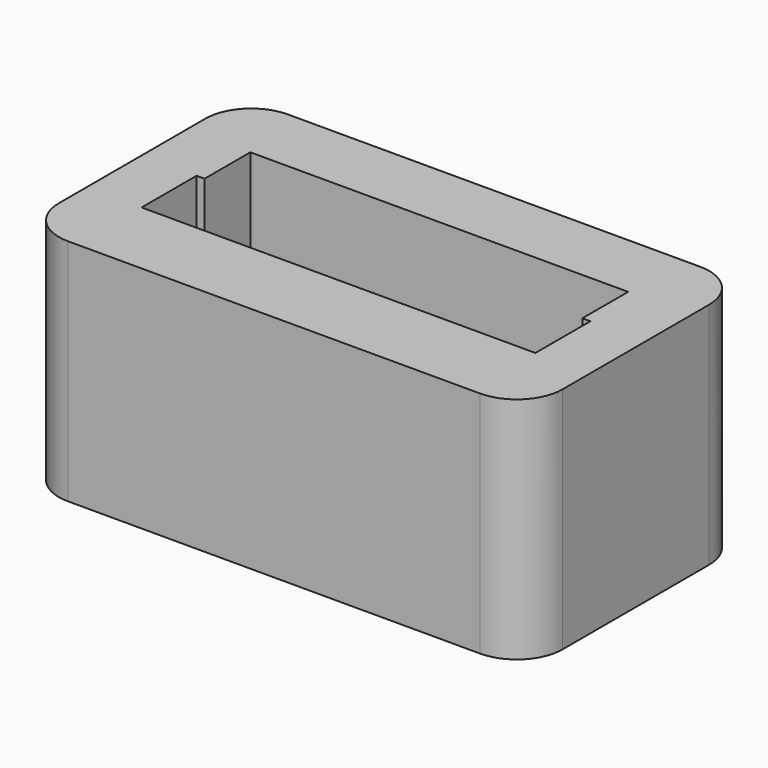
from build123d import *

# Parameters (mm, degrees)
F0_W     = 22
F0_H     = 12
F1_DEPTH = 1
F2_DEPTH = 10
F3_W     = 2.4
F3_H     = 2.5
F4_DEPTH = 9
F5_R     = 2


with BuildPart() as f1:
    # F0 (on Top) → F1 (new body)
    with BuildSketch(Plane.XY):
        Rectangle(F0_W, F0_H)
        Polygon((-5.85, 3.015924), (0, 3.015924), (5.85, 3.015924), (5.85, 0.515924), (8.6, 0.515924), (8.6, -2.484076), (0, -2.484076), (-8.6, -2.484076), (-8.6, 0.515924), (-5.85, 0.515924), align=None, mode=Mode.SUBTRACT)
        Polygon((8.6, 0.515924), (5.85, 0.515924), (-5.85, 0.515924), (-8.6, 0.515924), (-8.6, -2.484076), (0, -2.484076), (8.6, -2.484076), align=None)
    extrude(amount=F1_DEPTH)

    # F0 (on Top) → F2 (join)
    with BuildSketch(Plane.XY):
        Rectangle(F0_W, F0_H)
        Polygon((-5.85, 3.015924), (0, 3.015924), (5.85, 3.015924), (5.85, 0.515924), (8.6, 0.515924), (8.6, -2.484076), (0, -2.484076), (-8.6, -2.484076), (-8.6, 0.515924), (-5.85, 0.515924), align=None, mode=Mode.SUBTRACT)
    extrude(amount=F2_DEPTH)

    # F3 (on face) → F4 (cut, through all)
    with BuildSketch(Plane.XY.offset(10)):
        with Locations((-7.05, 1.765924)):
            Rectangle(F3_W, F3_H)
        with Locations((7.05, 1.765924)):
            Rectangle(F3_W, F3_H)
    extrude(amount=-F4_DEPTH, mode=Mode.SUBTRACT)

    # F5
    f5_edges = [f1.edges().sort_by_distance(p)[0] for p in [
        (-11, -6, 5),
        (11, -6, 5),
        (-11, 6, 5),
        (11, 6, 5),
    ]]
    fillet(f5_edges, radius=F5_R)


solid = f1.part
